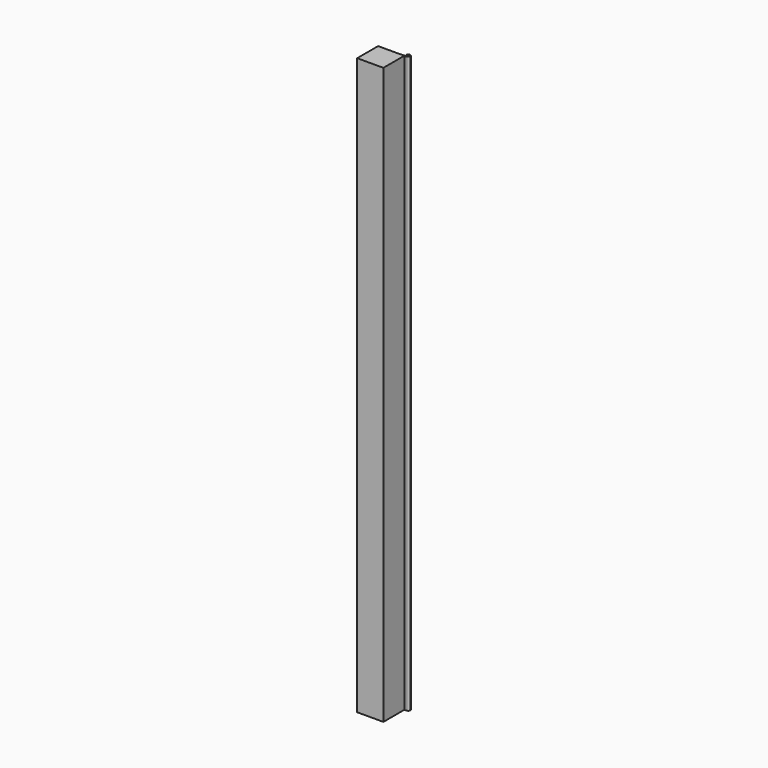
from build123d import *

# Parameters (mm, degrees)
F0_W     = 100
F0_H     = 100
F1_DEPTH = 2200
F2_R     = 4
F3_DEPTH = 2200


with BuildPart() as f1:
    # F0 (on Top) → F1 (new body)
    with BuildSketch(Plane.XY):
        Rectangle(F0_W, F0_H)
    extrude(amount=F1_DEPTH)

    # F2 (on face) → F3 (join)
    with BuildSketch(Plane.XY.offset(2200)):
        with BuildLine():
            ThreePointArc((59.638709, 51.086948), (64.191674, 53.615858), (66, 58.5))
            ThreePointArc((66, 58.5), (54.063458, 64.547073), (56.248774, 51.345842))
            ThreePointArc((56.248774, 51.345842), (57.928878, 51.021777), (59.638709, 51.086948))
        make_face()
        with Locations((58.5, 58.5)):
            Circle(F2_R, mode=Mode.SUBTRACT)
        with BuildLine():
            ThreePointArc((59.638709, 51.086948), (57.928878, 51.021777), (56.248774, 51.345842))
            Line((56.248774, 51.345842), (32.702584, 50.855044))
            Line((32.702584, 50.855044), (32.702584, 50))
            Line((32.702584, 50), (50, 50))
            Line((50, 50), (59.638709, 50))
            Line((59.638709, 50), (59.638709, 51.086948))
        make_face()
    extrude(amount=-F3_DEPTH)


solid = f1.part
